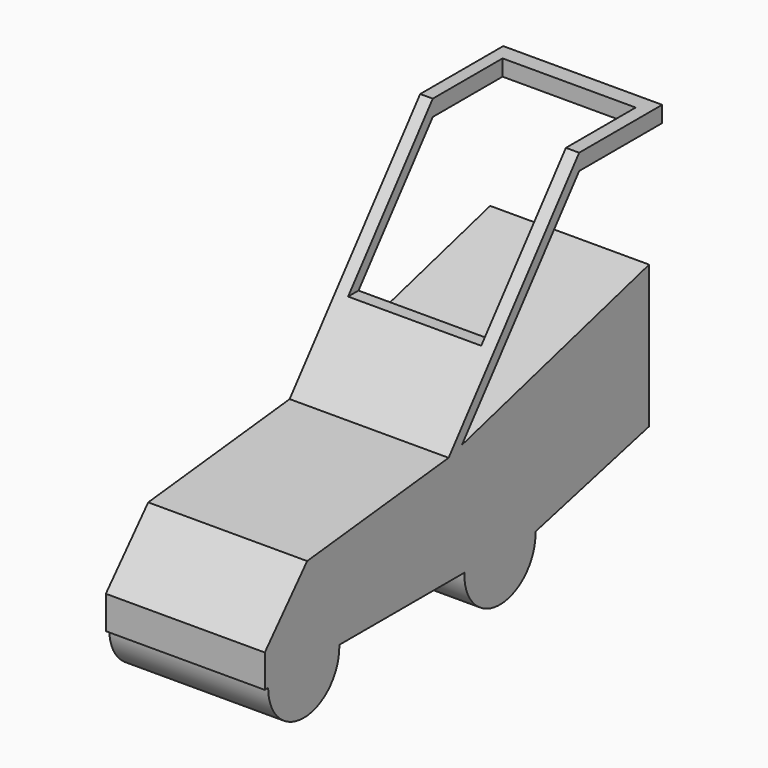
from build123d import *

# Parameters (mm, degrees)
F1_DEPTH = 200
F2_W     = 335.056305
F2_H     = 699.782848
F3_DEPTH = 330.21611


with BuildPart() as f1:
    # F0 (on Right) → F1 (new body, symmetric)
    with BuildSketch(Plane.YZ):
        with BuildLine():
            ThreePointArc((851.475526, 116.391551), (739.643276, 223.843098), (627.811026, 116.391551))
            Line((627.811026, 116.391551), (851.475526, 116.391551))
        make_face()
        with BuildLine():
            ThreePointArc((10.594565, 112.123632), (122.41489, 4.6e-05), (234.437481, 111.921549))
            ThreePointArc((234.437481, 111.921549), (234.415154, 114.156996), (234.348182, 116.391551))
            Line((234.348182, 116.391551), (10.594565, 112.123632))
        make_face()
        with BuildLine():
            Line((10.594565, 112.123632), (234.348182, 116.391551))
            ThreePointArc((234.348182, 116.391551), (120.381507, 223.822743), (10.594565, 112.123632))
        make_face()
        with BuildLine():
            Line((851.475526, 116.391551), (627.811026, 116.391551))
            ThreePointArc((627.811026, 116.391551), (737.407829, 0.022327), (851.564825, 111.921549))
            ThreePointArc((851.564825, 111.921549), (851.542498, 114.156996), (851.475526, 116.391551))
        make_face()
        with BuildLine():
            ThreePointArc((10.594565, 112.123632), (120.381507, 223.822743), (234.348182, 116.391551))
            Line((234.348182, 116.391551), (627.811026, 116.391551))
            ThreePointArc((627.811026, 116.391551), (739.643276, 223.843098), (851.475526, 116.391551))
            Line((851.475526, 116.391551), (1208.921194, 204.149604))
            Line((1208.921194, 204.149604), (1208.921194, 562.703967))
            Line((1208.921194, 562.703967), (620.193636, 402.439284))
            Line((620.193636, 402.439284), (578.239322, 391.018391))
            Line((578.239322, 391.018391), (133.258164, 343.13333))
            Line((133.258164, 343.13333), (0, 194.806337))
            Line((0, 194.806337), (0, 111.921549))
            Line((0, 111.921549), (10.594565, 112.123632))
        make_face()
        Polygon((988.866329, 900), (578.239322, 391.018391), (620.193636, 402.439284), (988.866329, 859.417558), (1250, 859.417558), (1250, 900), align=None)
    extrude(amount=F1_DEPTH, both=True)

    # F2 (on face) → F3 (cut)
    with BuildSketch(Plane.XY.offset(900)):
        with Locations((-0.824928, 858.516693)):
            Rectangle(F2_W, F2_H)
    extrude(amount=-F3_DEPTH, mode=Mode.SUBTRACT)


solid = f1.part
